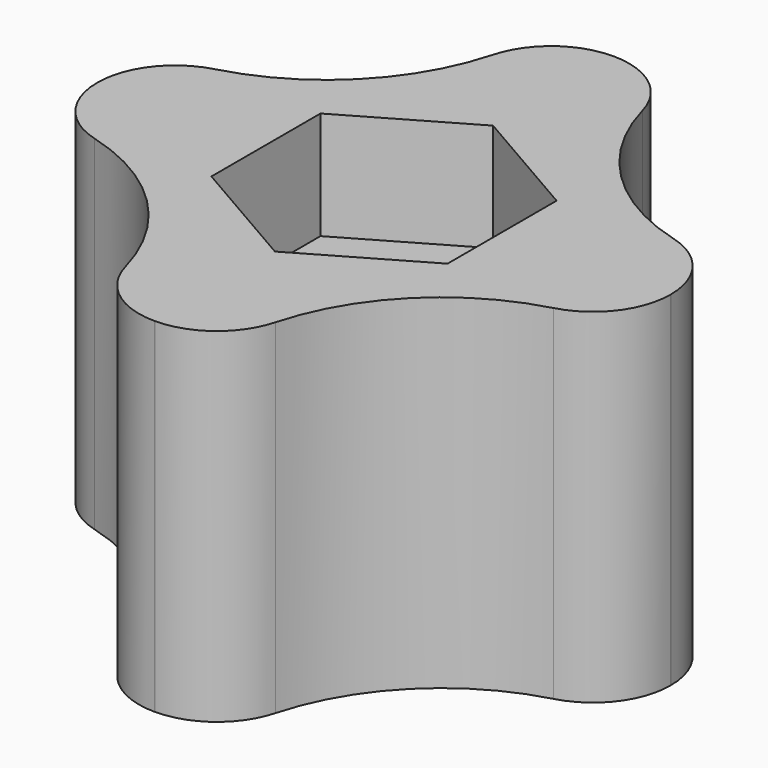
from build123d import *

# Parameters (mm, degrees)
F1_DEPTH = 3.2
F0_R     = 2.1
F2_DEPTH = 7
F3_R     = 2.3


with BuildPart() as f1:
    # F0 (on Top) → F1 (new body)
    with BuildSketch(Plane.XY):
        with BuildLine():
            Line((8.5, 0), (8.5, 2))
            ThreePointArc((8.5, 2), (3.9038059223, 3.9038059223), (2, 8.5))
            Line((2, 8.5), (0, 8.5))
            Line((0, 8.5), (-2, 8.5))
            ThreePointArc((-2, 8.5), (-3.9038059223, 3.9038059223), (-8.5, 2))
            Line((-8.5, 2), (-8.5, 0))
            Line((-8.5, 0), (-8.5, -2))
            ThreePointArc((-8.5, -2), (-3.9038059223, -3.9038059223), (-2, -8.5))
            Line((-2, -8.5), (0, -8.5))
            Line((0, -8.5), (2, -8.5))
            ThreePointArc((2, -8.5), (3.9038059223, -3.9038059223), (8.5, -2))
            Line((8.5, -2), (8.5, 0))
        make_face()
        Polygon((0, 4.0414518843), (3.5, 2.0207259422), (3.5, -2.0207259422), (0, -4.0414518843), (-3.5, -2.0207259422), (-3.5, 2.0207259422), align=None, mode=Mode.SUBTRACT)
    extrude(amount=F1_DEPTH)

    # F0 (on Top) → F2 (join)
    with BuildSketch(Plane.XY):
        with BuildLine():
            Line((8.5, 0), (8.5, 2))
            ThreePointArc((8.5, 2), (3.9038059223, 3.9038059223), (2, 8.5))
            Line((2, 8.5), (0, 8.5))
            Line((0, 8.5), (-2, 8.5))
            ThreePointArc((-2, 8.5), (-3.9038059223, 3.9038059223), (-8.5, 2))
            Line((-8.5, 2), (-8.5, 0))
            Line((-8.5, 0), (-8.5, -2))
            ThreePointArc((-8.5, -2), (-3.9038059223, -3.9038059223), (-2, -8.5))
            Line((-2, -8.5), (0, -8.5))
            Line((0, -8.5), (2, -8.5))
            ThreePointArc((2, -8.5), (3.9038059223, -3.9038059223), (8.5, -2))
            Line((8.5, -2), (8.5, 0))
        make_face()
        Polygon((0, 4.0414518843), (3.5, 2.0207259422), (3.5, -2.0207259422), (0, -4.0414518843), (-3.5, -2.0207259422), (-3.5, 2.0207259422), align=None, mode=Mode.SUBTRACT)
        Polygon((3.5, -2.0207259422), (3.5, 2.0207259422), (0, 4.0414518843), (-3.5, 2.0207259422), (-3.5, -2.0207259422), (0, -4.0414518843), align=None)
        Circle(F0_R, mode=Mode.SUBTRACT)
    extrude(amount=-F2_DEPTH)

    # F3
    f3_edges = [f1.edges().sort_by_distance(p)[0] for p in [
        (8.5, 2, -1.9),
        (8.5, -2, -1.9),
        (2, -8.5, -1.9),
        (2, 8.5, -1.9),
        (-2, 8.5, -1.9),
        (-8.5, 2, -1.9),
        (-8.5, -2, -1.9),
        (-2, -8.5, -1.9),
    ]]
    fillet(f3_edges, radius=F3_R)


solid = f1.part
